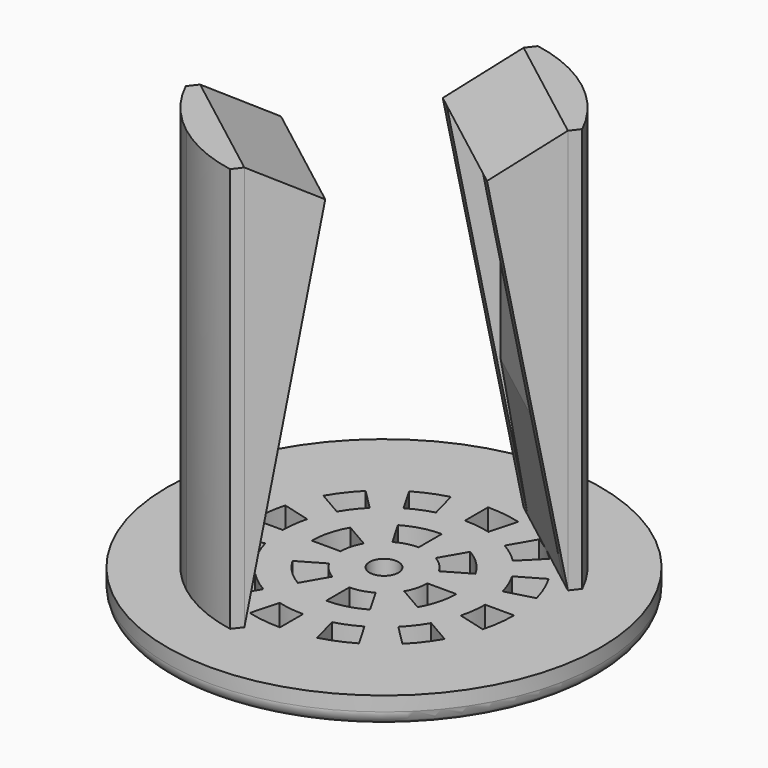
from build123d import *

# Parameters (mm, degrees)
F0_R     = 15
F0_R_2   = 1
F1_DEPTH = 2
F3_DEPTH = 28
F5_DEPTH = 10
F7_DEPTH = 0.9
F9_DEPTH = 0.9
F10_R    = 1


with BuildPart() as f1:
    # F0 (on Top) → F1 (new body)
    with BuildSketch(Plane.XY):
        Circle(F0_R)
        with BuildLine():
            Line((0, -7), (0, -9))
            ThreePointArc((0, -9), (-1.17473573, -8.9230037524), (-2.3293714059, -8.6933324366))
            Line((-2.3293714059, -8.6933324366), (-1.8117333157, -6.761480784))
            ThreePointArc((-1.8117333157, -6.761480784), (-0.9136833455, -6.9401140296), (0, -7))
        make_face(mode=Mode.SUBTRACT)
        with BuildLine():
            Line((-3.5, -6.0621778265), (-4.5, -7.7942286341))
            ThreePointArc((-4.5, -7.7942286341), (-5.4788528611, -7.1401800626), (-6.3639610307, -6.3639610307))
            Line((-6.3639610307, -6.3639610307), (-4.9497474683, -4.9497474683))
            ThreePointArc((-4.9497474683, -4.9497474683), (-4.2613300031, -5.553473382), (-3.5, -6.0621778265))
        make_face(mode=Mode.SUBTRACT)
        with BuildLine():
            Line((-6.0621778265, -3.5), (-7.7942286341, -4.5))
            ThreePointArc((-7.7942286341, -4.5), (-8.3149157926, -3.4441508913), (-8.6933324366, -2.3293714059))
            Line((-8.6933324366, -2.3293714059), (-6.761480784, -1.8117333157))
            ThreePointArc((-6.761480784, -1.8117333157), (-6.4671567276, -2.6787840266), (-6.0621778265, -3.5))
        make_face(mode=Mode.SUBTRACT)
        with BuildLine():
            Line((-4.3301270189, -2.5), (-2.5980762114, -1.5))
            ThreePointArc((-2.5980762114, -1.5), (-2.1213203436, -2.1213203436), (-1.5, -2.5980762114))
            Line((-1.5, -2.5980762114), (-2.5, -4.3301270189))
            ThreePointArc((-2.5, -4.3301270189), (-3.5355339059, -3.5355339059), (-4.3301270189, -2.5))
        make_face(mode=Mode.SUBTRACT)
        with BuildLine():
            Line((3.5, -6.0621778265), (4.5, -7.7942286341))
            ThreePointArc((4.5, -7.7942286341), (3.4441508913, -8.3149157926), (2.3293714059, -8.6933324366))
            Line((2.3293714059, -8.6933324366), (1.8117333157, -6.761480784))
            ThreePointArc((1.8117333157, -6.761480784), (2.6787840266, -6.4671567276), (3.5, -6.0621778265))
        make_face(mode=Mode.SUBTRACT)
        with BuildLine():
            Line((0, -5), (0, -3))
            ThreePointArc((0, -3), (0.7764571353, -2.8977774789), (1.5, -2.5980762114))
            Line((1.5, -2.5980762114), (2.5, -4.3301270189))
            ThreePointArc((2.5, -4.3301270189), (1.2940952255, -4.8296291314), (0, -5))
        make_face(mode=Mode.SUBTRACT)
        with BuildLine():
            Line((6.0621778265, -3.5), (7.7942286341, -4.5))
            ThreePointArc((7.7942286341, -4.5), (7.1401800626, -5.4788528611), (6.3639610307, -6.3639610307))
            Line((6.3639610307, -6.3639610307), (4.9497474683, -4.9497474683))
            ThreePointArc((4.9497474683, -4.9497474683), (5.553473382, -4.2613300031), (6.0621778265, -3.5))
        make_face(mode=Mode.SUBTRACT)
        with BuildLine():
            Line((4.3301270189, -2.5), (2.5980762114, -1.5))
            ThreePointArc((2.5980762114, -1.5), (2.8977774789, -0.7764571353), (3, 0))
            Line((3, 0), (5, 0))
            ThreePointArc((5, 0), (4.8296291314, -1.2940952255), (4.3301270189, -2.5))
        make_face(mode=Mode.SUBTRACT)
        with BuildLine():
            Line((7, 0), (9, 0))
            ThreePointArc((9, 0), (8.9230037524, -1.17473573), (8.6933324366, -2.3293714059))
            Line((8.6933324366, -2.3293714059), (6.761480784, -1.8117333157))
            ThreePointArc((6.761480784, -1.8117333157), (6.9401140296, -0.9136833455), (7, 0))
        make_face(mode=Mode.SUBTRACT)
        with BuildLine():
            ThreePointArc((-6.761480784, 1.8117333157), (-6.9401140296, 0.9136833455), (-7, 0))
            Line((-7, 0), (-9, 0))
            ThreePointArc((-9, 0), (-8.9230037524, 1.17473573), (-8.6933324366, 2.3293714059))
            Line((-8.6933324366, 2.3293714059), (-6.761480784, 1.8117333157))
        make_face(mode=Mode.SUBTRACT)
        with BuildLine():
            ThreePointArc((-2.5980762114, 1.5), (-2.8977774789, 0.7764571353), (-3, 0))
            Line((-3, 0), (-5, 0))
            ThreePointArc((-5, 0), (-4.8296291314, 1.2940952255), (-4.3301270189, 2.5))
            Line((-4.3301270189, 2.5), (-2.5980762114, 1.5))
        make_face(mode=Mode.SUBTRACT)
        with BuildLine():
            Line((-6.0621778265, 3.5), (-7.7942286341, 4.5))
            ThreePointArc((-7.7942286341, 4.5), (-7.1401800626, 5.4788528611), (-6.3639610307, 6.3639610307))
            Line((-6.3639610307, 6.3639610307), (-4.9497474683, 4.9497474683))
            ThreePointArc((-4.9497474683, 4.9497474683), (-5.553473382, 4.2613300031), (-6.0621778265, 3.5))
        make_face(mode=Mode.SUBTRACT)
        with BuildLine():
            ThreePointArc((0, 3), (-0.7764571353, 2.8977774789), (-1.5, 2.5980762114))
            Line((-1.5, 2.5980762114), (-2.5, 4.3301270189))
            ThreePointArc((-2.5, 4.3301270189), (-1.2940952255, 4.8296291314), (0, 5))
            Line((0, 5), (0, 3))
        make_face(mode=Mode.SUBTRACT)
        with BuildLine():
            Line((-3.5, 6.0621778265), (-4.5, 7.7942286341))
            ThreePointArc((-4.5, 7.7942286341), (-3.4441508913, 8.3149157926), (-2.3293714059, 8.6933324366))
            Line((-2.3293714059, 8.6933324366), (-1.8117333157, 6.761480784))
            ThreePointArc((-1.8117333157, 6.761480784), (-2.6787840266, 6.4671567276), (-3.5, 6.0621778265))
        make_face(mode=Mode.SUBTRACT)
        Circle(F0_R_2, mode=Mode.SUBTRACT)
        with BuildLine():
            Line((4.3301270189, 2.5), (2.5980762114, 1.5))
            ThreePointArc((2.5980762114, 1.5), (2.1213203436, 2.1213203436), (1.5, 2.5980762114))
            Line((1.5, 2.5980762114), (2.5, 4.3301270189))
            ThreePointArc((2.5, 4.3301270189), (3.5355339059, 3.5355339059), (4.3301270189, 2.5))
        make_face(mode=Mode.SUBTRACT)
        with BuildLine():
            Line((6.0621778265, 3.5), (7.7942286341, 4.5))
            ThreePointArc((7.7942286341, 4.5), (8.3149157926, 3.4441508913), (8.6933324366, 2.3293714059))
            Line((8.6933324366, 2.3293714059), (6.761480784, 1.8117333157))
            ThreePointArc((6.761480784, 1.8117333157), (6.4671567276, 2.6787840266), (6.0621778265, 3.5))
        make_face(mode=Mode.SUBTRACT)
        with BuildLine():
            Line((3.5, 6.0621778265), (4.5, 7.7942286341))
            ThreePointArc((4.5, 7.7942286341), (5.4788528611, 7.1401800626), (6.3639610307, 6.3639610307))
            Line((6.3639610307, 6.3639610307), (4.9497474683, 4.9497474683))
            ThreePointArc((4.9497474683, 4.9497474683), (4.2613300031, 5.553473382), (3.5, 6.0621778265))
        make_face(mode=Mode.SUBTRACT)
        with BuildLine():
            Line((0, 7), (0, 9))
            ThreePointArc((0, 9), (1.17473573, 8.9230037524), (2.3293714059, 8.6933324366))
            Line((2.3293714059, 8.6933324366), (1.8117333157, 6.761480784))
            ThreePointArc((1.8117333157, 6.761480784), (0.9136833455, 6.9401140296), (0, 7))
        make_face(mode=Mode.SUBTRACT)
    extrude(amount=F1_DEPTH)

    # F2 (on face) → F3 (join)
    with BuildSketch(Plane.XY.offset(2)):
        with BuildLine():
            Line((6.6963757191, 8.7268867432), (5.4788528611, 7.1401800626))
            Line((5.4788528342, 7.1401800833), (9.4456195625, 4.0963729176))
            Line((9.4456195625, 4.0963729176), (9.9313862061, 4.7294363327))
            ThreePointArc((9.9313862061, 4.7294363327), (8.5507613173, 6.9198613349), (6.6963757191, 8.7268867432))
        make_face()
        with BuildLine():
            Line((1.9978528032, 10.8170506228), (1.5120861596, 10.1839872077))
            Line((1.5120861596, 10.1839872077), (5.4788528342, 7.1401800833))
            Line((5.4788528611, 7.1401800626), (6.6963757191, 8.7268867432))
            ThreePointArc((6.6963757191, 8.7268867432), (4.4709728986, 10.0503930938), (1.9978528032, 10.8170506228))
        make_face()
        with BuildLine():
            Line((-9.4456195625, -4.0963729176), (-9.9313862061, -4.7294363327))
            ThreePointArc((-9.9313862061, -4.7294363327), (-8.5507612755, -6.9198613865), (-6.6963756136, -8.7268868241))
            ThreePointArc((-6.6963756136, -8.7268868241), (-4.4709728379, -10.0503931208), (-1.9978528032, -10.8170506228))
            Line((-1.9978528032, -10.8170506228), (-1.5120861596, -10.1839872077))
            Line((-1.5120861596, -10.1839872077), (-5.47885283, -7.1401800865))
            Line((-5.47885283, -7.1401800865), (-9.4456195625, -4.0963729176))
        make_face()
    extrude(amount=F3_DEPTH)

    # F4 (on face) → F5 (join)
    with BuildSketch(Plane(origin=(3.9667667015, -3.043807145, 0), x_dir=(0.608761429, 0.7933533403, 0), z_dir=(0.7933533403, -0.608761429, 0))):
        Polygon((-4.5, 27.5), (-9, 30), (-9, 2), (-7.5, 11.6874175146), (-7.5, 27.5), align=None)
        Polygon((4.5, 27.5), (7.5, 27.5), (7.5, 11.6874175146), (9, 2), (9, 30), align=None)
    extrude(amount=-F5_DEPTH)

    # F6 (on face) → F7 (join)
    with BuildSketch(Plane(origin=(3.9667667015, -3.043807145, 0), x_dir=(0.608761429, 0.7933533403, 0), z_dir=(0.7933533403, -0.608761429, 0))):
        Polygon((-9, 2), (-4.5, 27.5), (-7.5, 27.5), (-7.5, 22.8047555536), align=None)
        Polygon((7.5, 22.8047555536), (7.5, 27.5), (4.5, 27.5), (9, 2), align=None)
    extrude(amount=-F7_DEPTH)

    # F8 (on face) → F9 (join)
    with BuildSketch(Plane(origin=(-3.9667667015, 3.043807145, 0), x_dir=(-0.608761429, -0.7933533403, 0), z_dir=(-0.7933533403, 0.608761429, 0))):
        Polygon((-9, 2), (-4.5, 27.5), (-7.5, 27.5), (-7.5, 11.6874175146), align=None)
        Polygon((7.5, 27.5), (4.5, 27.5), (9, 2), (7.5, 11.6874175146), align=None)
    extrude(amount=-F9_DEPTH)

    # F10
    f10_edges = [f1.edges().sort_by_distance(p)[0] for p in [
        (-15, 0, 0),
    ]]
    fillet(f10_edges, radius=F10_R)


solid = f1.part
